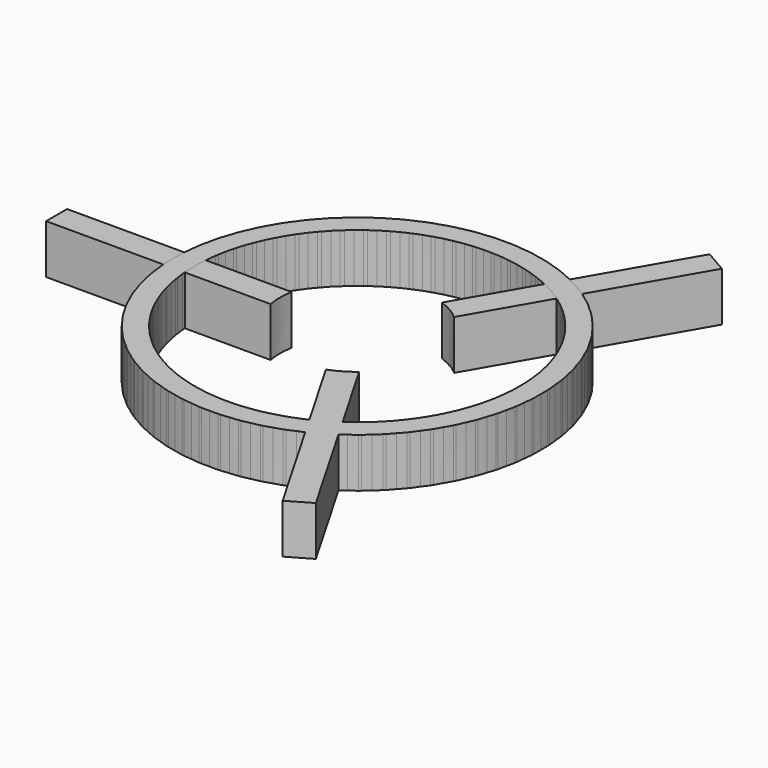
from build123d import *

# Parameters (mm, degrees)
F1_DEPTH = 7
F2_COUNT = 3


with BuildPart() as f1:
    # F0 (on Top) → F1 (new body)
    with BuildSketch(Plane.XY):
        with BuildLine():
            Line((-42.761238, 1.866361), (-42.761238, -1.866361))
            Line((-42.761238, -1.866361), (-26.088579, -1.866361))
            ThreePointArc((-26.088579, -1.866361), (26.155253, 0), (-26.088579, 1.866361))
            Line((-26.088579, 1.866361), (-42.761238, 1.866361))
        make_face()
        with BuildLine():
            ThreePointArc((-10.840512, -1.866361), (-11, 0), (-10.840512, 1.866361))
            Line((-10.840512, 1.866361), (-23.067448, 1.866361))
            ThreePointArc((-23.067448, 1.866361), (23.142827, 0), (-23.067448, -1.866361))
            Line((-23.067448, -1.866361), (-10.840512, -1.866361))
        make_face(mode=Mode.SUBTRACT)
    extrude(amount=F1_DEPTH)


with BuildPart() as f2_1:
    # F2: instance of F1
    add(f1.part.rotate(Axis((0, 0, 0), (0, 0, -1)), 1 * 360 / F2_COUNT))


with BuildPart() as f2_2:
    # F2: instance of F1
    add(f1.part.rotate(Axis((0, 0, 0), (0, 0, -1)), 2 * 360 / F2_COUNT))


solid = Compound([f1.part, f2_1.part, f2_2.part])
